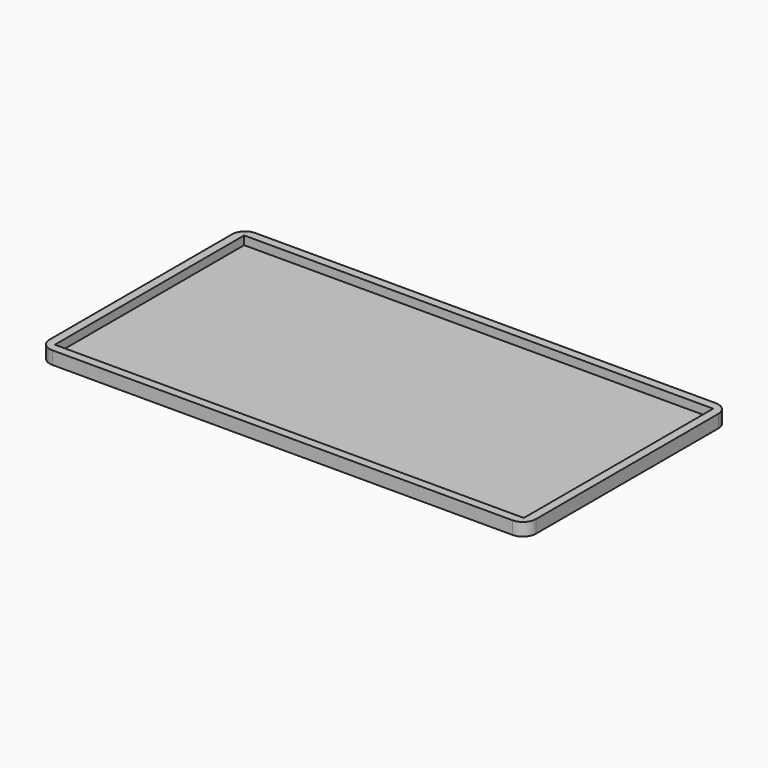
from build123d import *

# Parameters (mm, degrees)
F0_W     = 109
F0_H     = 55
F1_DEPTH = 1
F2_DEPTH = 3
F3_R     = 3


with BuildPart() as f1:
    # F0 (on Top) → F1 (new body)
    with BuildSketch(Plane.XY):
        with Locations((0, -3.65053)):
            Rectangle(F0_W, F0_H)
    extrude(amount=F1_DEPTH)

    # F0 (on Top) → F2 (join)
    with BuildSketch(Plane.XY):
        Polygon((56.5, 25.84947), (-56.5, 25.84947), (-56.5, -33.15053), (-11, -33.15053), (-10, -33.15053), (10, -33.15053), (11, -33.15053), (56.5, -33.15053), align=None)
        with Locations((0, -3.65053)):
            Rectangle(F0_W, F0_H, mode=Mode.SUBTRACT)
    extrude(amount=F2_DEPTH)

    # F3
    f3_edges = [f1.edges().sort_by_distance(p)[0] for p in [
        (-56.5, 25.84947, 1.5),
        (-56.5, -33.15053, 1.5),
        (56.5, -33.15053, 1.5),
        (56.5, 25.84947, 1.5),
    ]]
    fillet(f3_edges, radius=F3_R)


solid = f1.part
